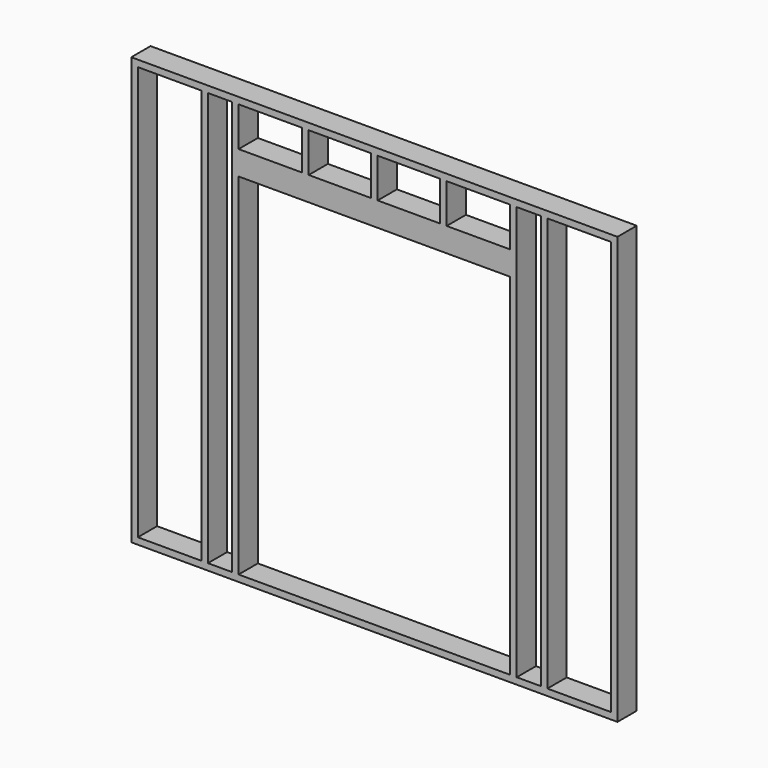
from build123d import *

# Parameters (mm, degrees)
F0_W     = 2819.4
F0_H     = 2476.5
F1_DEPTH = 139.7
F2_W     = 1574.8
F2_H     = 2032
F3_DEPTH = 139.701
F4_W     = 368.3
F4_H     = 2400.3
F4_W_2   = 139.7
F4_H_2   = 228.6
F4_W_3   = 361.95
F5_DEPTH = 139.701


with BuildPart() as f1:
    # F0 (on Front) → F1 (new body)
    with BuildSketch(Plane.XZ):
        with Locations((1409.7, 1238.25)):
            Rectangle(F0_W, F0_H)
    extrude(amount=F1_DEPTH)

    # F2 (on face) → F3 (cut, through all)
    with BuildSketch(Plane.XZ.offset(139.7)):
        with Locations((1409.7, 1054.1)):
            Rectangle(F2_W, F2_H)
    extrude(amount=-F3_DEPTH, mode=Mode.SUBTRACT)

    # F4 (on face) → F5 (cut, through all)
    with BuildSketch(Plane.XZ.offset(139.7)):
        with Locations((2597.15, 1238.25)):
            Rectangle(F4_W, F4_H)
        with Locations((2305.05, 1238.25)):
            Rectangle(F4_W_2, F4_H)
        with Locations((2012.95, 2324.1)):
            Rectangle(F4_W, F4_H_2)
        with Locations((222.25, 1238.25)):
            Rectangle(F4_W, F4_H)
        with Locations((514.35, 1238.25)):
            Rectangle(F4_W_2, F4_H)
        with Locations((806.45, 2324.1)):
            Rectangle(F4_W, F4_H_2)
        with Locations((1209.675, 2324.1)):
            Rectangle(F4_W_3, F4_H_2)
        with Locations((1609.725, 2324.1)):
            Rectangle(F4_W_3, F4_H_2)
    extrude(amount=-F5_DEPTH, mode=Mode.SUBTRACT)


solid = f1.part
